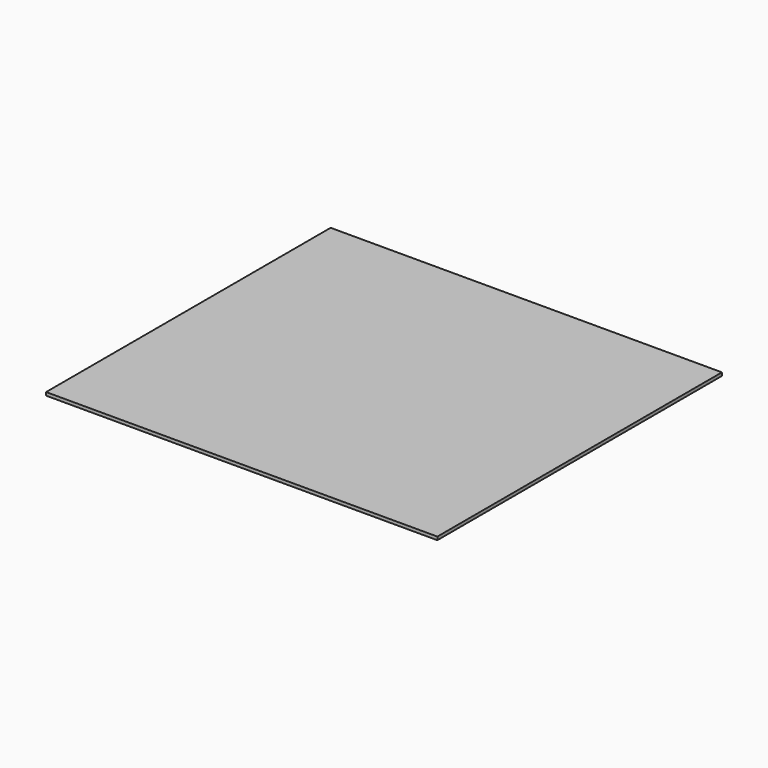
from build123d import *

# Parameters (mm, degrees)
F0_W     = 550
F0_H     = 500
F1_DEPTH = 4
F2_DEPTH = 0.5
F3_DEPTH = 0.5
F4_DEPTH = 0.5


with BuildPart() as f1:
    # F0 (on Top) → F1 (new body)
    with BuildSketch(Plane.XY):
        with Locations((20.5340534449, 55.919075012)):
            Rectangle(F0_W, F0_H)
    extrude(amount=F1_DEPTH)

    # F2 (add): a face of the model
    f2_faces = [f1.faces().sort_by_distance(p)[0] for p in [
        (20.5340534449, 55.919075012, 4),
    ]]
    extrude(f2_faces, amount=F2_DEPTH)

    # F3 (add): a face of the model
    f3_faces = [f1.faces().sort_by_distance(p)[0] for p in [
        (20.5340534449, 55.919075012, 4.5),
    ]]
    extrude(f3_faces, amount=F3_DEPTH)

    # F4 (cut): a face of the model
    f4_faces = [f1.faces().sort_by_distance(p)[0] for p in [
        (20.5340534449, 55.919075012, 5),
    ]]
    extrude(f4_faces, amount=-F4_DEPTH, mode=Mode.SUBTRACT)


solid = f1.part
